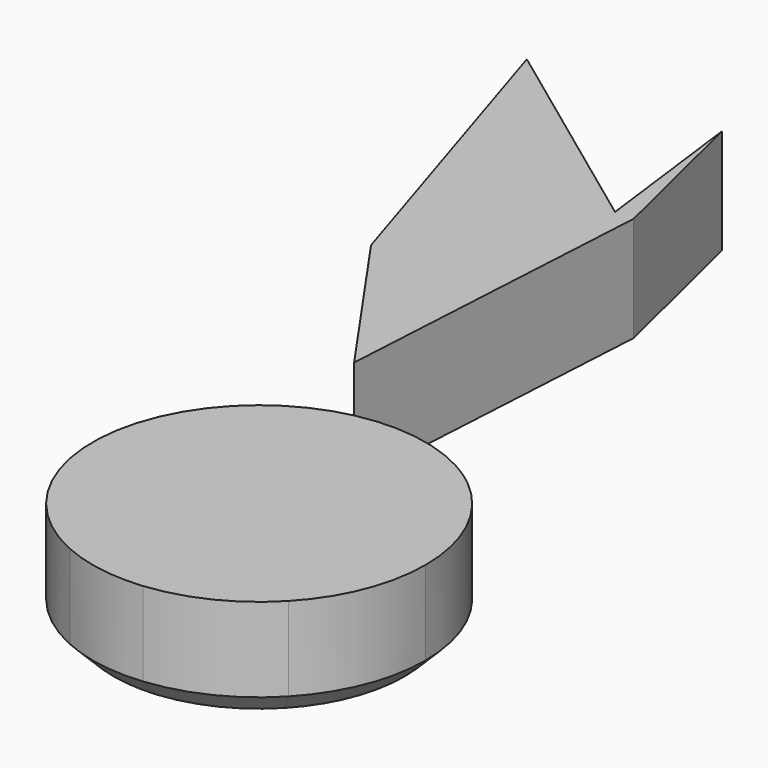
from build123d import *

# Parameters (mm, degrees)
F1_DEPTH = 25.4
F2_SIZE  = 5.08


with BuildPart() as f1:
    # F0 (on Top) → F1 (new body)
    with BuildSketch(Plane.XY):
        Polygon((121.7608, 91.713183), (103.951156, 84.564619), (131.450236, 45.076758), align=None)
        Polygon((79.423539, 162.329495), (103.951156, 84.564619), (121.7608, 91.713183), align=None)
        Polygon((121.7608, 91.713183), (131.450236, 45.076758), (135.947436, 123.964921), (126.605518, 162.329495), (131.450236, 123.964921), align=None)
        Polygon((79.423539, 162.329495), (121.7608, 91.713183), (131.450236, 123.964921), align=None)
        with BuildLine():
            ThreePointArc((137.11226, -47.917117), (147.756024, -46.639907), (157.46098, -51.193455))
            ThreePointArc((157.46098, -51.193455), (171.193924, -47.277772), (182.694356, -38.812174))
            ThreePointArc((182.694356, -38.812174), (190.852254, -26.039368), (193.706535, -11.154848))
            ThreePointArc((193.706535, -11.154848), (189.874355, 5.982999), (179.10777, 19.856429))
            ThreePointArc((179.10777, 19.856429), (175.645979, 21.69235), (172.649129, 24.216928))
            ThreePointArc((172.649129, 24.216928), (147.500951, 28.637101), (124.756249, 17.033339))
            ThreePointArc((124.756249, 17.033339), (121.808642, 7.333711), (114.809509, 0))
            ThreePointArc((114.809509, 0), (116.990229, -28.133899), (137.11226, -47.917117))
        make_face()
        with BuildLine():
            ThreePointArc((137.11226, -47.917117), (147.073281, -50.880296), (157.46098, -51.193455))
            ThreePointArc((157.46098, -51.193455), (147.756024, -46.639907), (137.11226, -47.917117))
        make_face()
        with BuildLine():
            ThreePointArc((124.756249, 17.033339), (118.722958, 9.135618), (114.809509, 0))
            ThreePointArc((114.809509, 0), (121.808642, 7.333711), (124.756249, 17.033339))
        make_face()
        with BuildLine():
            ThreePointArc((172.649129, 24.216928), (175.645979, 21.69235), (179.10777, 19.856429))
            ThreePointArc((179.10777, 19.856429), (175.984261, 22.193405), (172.649129, 24.216928))
        make_face()
    extrude(amount=F1_DEPTH)

    # F2
    f2_edges = [f1.edges().sort_by_distance(p)[0] for p in [
        (127.831147, -42.166125, 0),
    ]]
    chamfer(f2_edges, length=F2_SIZE)


solid = f1.part
